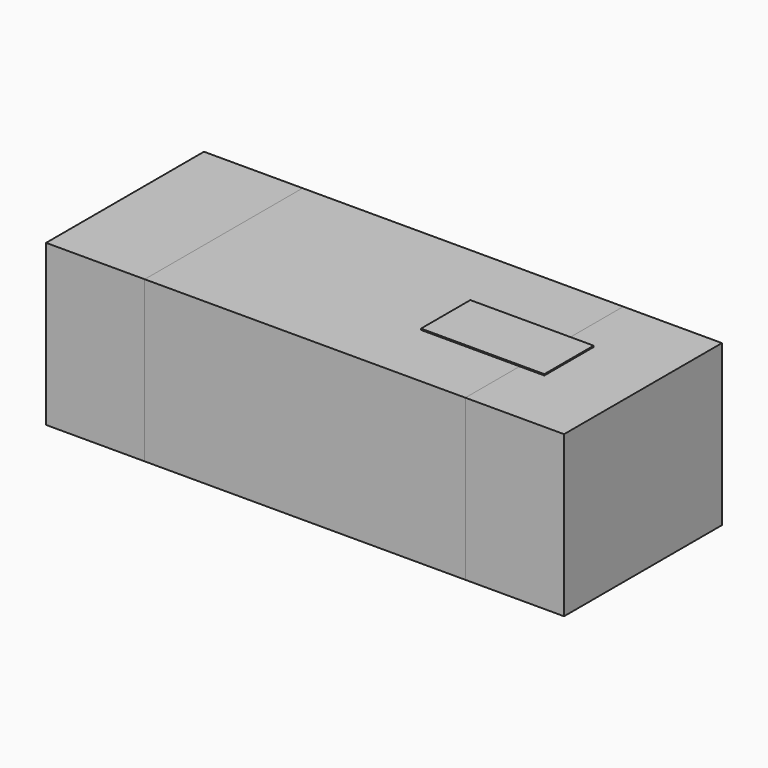
from build123d import *

# Parameters (mm, degrees)
F0_W     = 0.8
F0_H     = 1.6
F1_DEPTH = 1.3
F2_DEPTH = 1.3
F0_W_2   = 2.6
F3_DEPTH = 1.3
F4_W     = 0.8
F4_H     = 0.5
F4_W_2   = 0.2
F5_DEPTH = 0.01


with BuildPart() as f1:
    # F0 (on Top) → F1 (new body)
    with BuildSketch(Plane.XY):
        with Locations((1.7, 0)):
            Rectangle(F0_W, F0_H)
    extrude(amount=F1_DEPTH)


with BuildPart() as f2:
    # F0 (on Top) → F2 (new body)
    with BuildSketch(Plane.XY):
        with Locations((-1.7, 0)):
            Rectangle(F0_W, F0_H)
    extrude(amount=F2_DEPTH)


with BuildPart() as f3:
    # F0 (on Top) → F3 (new body)
    with BuildSketch(Plane.XY):
        Rectangle(F0_W_2, F0_H)
    extrude(amount=F3_DEPTH)


with BuildPart() as f5:
    # F4 (on face) → F5 (new body)
    with BuildSketch(Plane.XY.offset(1.3)):
        with Locations((0.9, 0)):
            Rectangle(F4_W, F4_H)
        with Locations((1.4, 0)):
            Rectangle(F4_W_2, F4_H)
    extrude(amount=F5_DEPTH)


solid = Compound([f1.part, f2.part, f3.part, f5.part])
